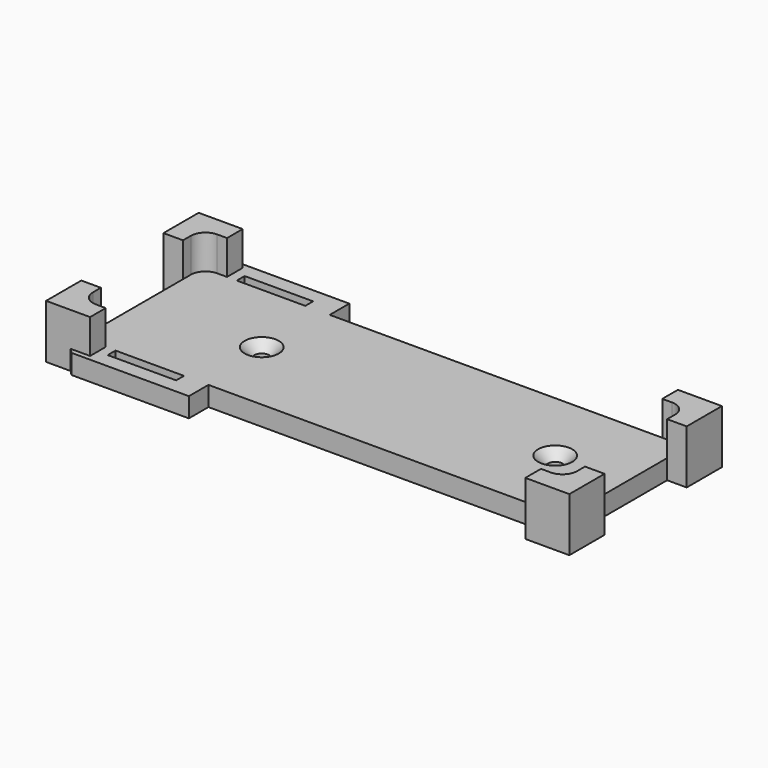
from build123d import *

# Parameters (mm, degrees)
SKETCH_W                = 99
SKETCH_H                = 31
PAD_DEPTH               = 4
PAD001_DEPTH            = 11
PAD002_DEPTH            = 4
PAD001_MIRRORED_2_DEPTH = 11
POLARPATTERN_COUNT      = 2
CHAMFER_SIZE            = 0.99
FILLET_R                = 3
HOLE_D                  = 3.1
HOLE_DEPTH              = 25
HOLE_CSINK_D            = 7
HOLE_CSINK_ANGLE        = 90


with BuildPart() as part:
    # Sketch → Pad (new body)
    with BuildSketch(Plane.XY):
        Rectangle(SKETCH_W, SKETCH_H)
    extrude(amount=PAD_DEPTH)

    # Sketch001 → Pad001 (join)
    with BuildSketch(Plane.XY):
        Polygon((-49.5, 15.5), (-44.5, 15.5), (-44.5, 19.5), (-53.5, 19.5), (-53.5, 10.5), (-49.5, 10.5), align=None)
    pad001 = extrude(amount=PAD001_DEPTH)

    # Sketch002 → Pad002 (join)
    with BuildSketch(Plane.XY):
        Polygon((-47.5, 15.5), (-47.5, 20.5), (-23.5, 20.5), (-23.5, 15.5), (-28.5, 15.5), (-28.5, 17.5), (-42.5, 17.5), (-42.5, 15.5), align=None)
    pad002 = extrude(amount=PAD002_DEPTH)

    # Sketch001 Mirrored 2 → Pad001 Mirrored 2 (add)
    with BuildSketch(Plane(origin=(0, 0, 0), x_dir=(-1, 0, 0), z_dir=(0, 0, -1))):
        Polygon((-49.5, 15.5), (-44.5, 15.5), (-44.5, 19.5), (-53.5, 19.5), (-53.5, 10.5), (-49.5, 10.5), align=None)
    pad001_mirrored_2 = extrude(amount=-PAD001_MIRRORED_2_DEPTH)

    # PolarPattern: Pad001, Pad001 Mirrored 2 ×2 about axis
    polarpattern_axis = Axis((0, 0, 0), (0, 0, 1))
    for i in range(1, POLARPATTERN_COUNT):
        add(pad001.rotate(polarpattern_axis, i * 360 / POLARPATTERN_COUNT))
        add(pad001_mirrored_2.rotate(polarpattern_axis, i * 360 / POLARPATTERN_COUNT))

    # Mirrored001: Pad002 across Sketch002 H_Axis
    add(pad002.mirror(Plane.ZX))

    # Chamfer
    chamfer_edges = [part.edges().sort_by_distance(p)[0] for p in [
        (-47.5, -19.5, 2),
        (-47.5, 19.5, 2),
    ]]
    chamfer(chamfer_edges, length=CHAMFER_SIZE)

    # Fillet
    fillet_edges = [part.edges().sort_by_distance(p)[0] for p in [
        (-49.5, -15.5, 7.5),
        (-49.5, 15.5, 7.5),
        (49.5, 15.5, 7.5),
        (49.5, -15.5, 7.5),
    ]]
    fillet(fillet_edges, radius=FILLET_R)

    # Hole
    with Locations(Plane.XY.offset(4)):
        with Locations((-25, 0), (35, 0)):
            CounterSinkHole(HOLE_D / 2, HOLE_CSINK_D / 2, depth=HOLE_DEPTH, counter_sink_angle=HOLE_CSINK_ANGLE)


solid = part.part
